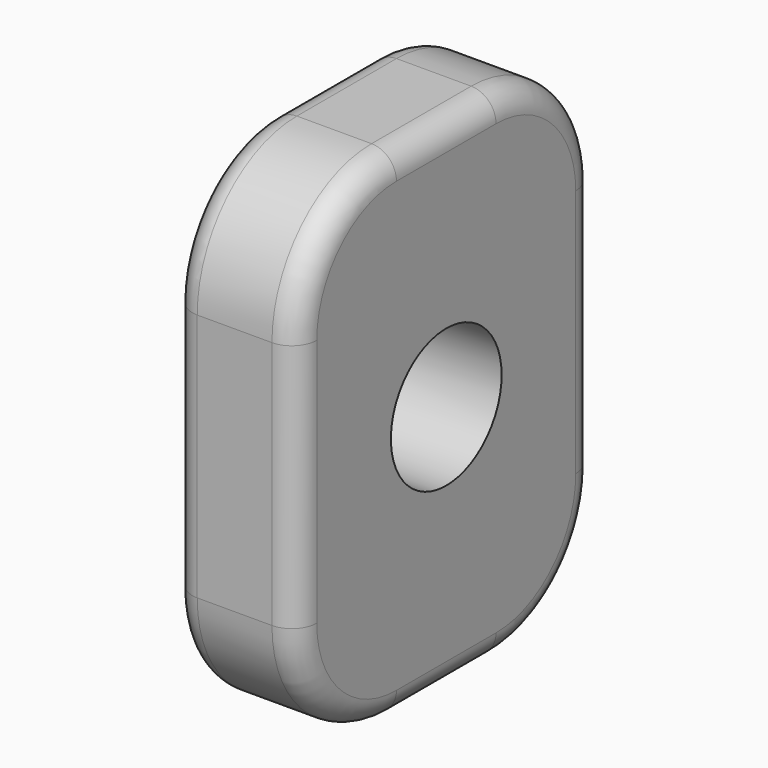
from build123d import *

# Parameters (mm, degrees)
F0_W     = 76.2
F0_H     = 101.6
F1_DEPTH = 25.4
F2_R     = 14.120977
F3_DEPTH = 25.4
F4_R     = 25.4
F5_R     = 5.08


with BuildPart() as f1:
    # F0 (on Right) → F1 (new body)
    with BuildSketch(Plane.YZ):
        Rectangle(F0_W, F0_H)
    extrude(amount=F1_DEPTH)

    # F2 (on face) → F3 (cut)
    with BuildSketch(Plane.YZ.offset(25.4)):
        Circle(F2_R)
    extrude(amount=-F3_DEPTH, mode=Mode.SUBTRACT)

    # F4
    f4_edges = [f1.edges().sort_by_distance(p)[0] for p in [
        (12.7, -38.1, 50.8),
        (12.7, -38.1, -50.8),
        (12.7, 38.1, 50.8),
        (12.7, 38.1, -50.8),
    ]]
    fillet(f4_edges, radius=F4_R)

    # F5
    f5_edges = [f1.edges().sort_by_distance(p)[0] for p in [
        (25.4, 38.1, 0),
        (0, 38.1, 0),
    ]]
    fillet(f5_edges, radius=F5_R)


solid = f1.part
